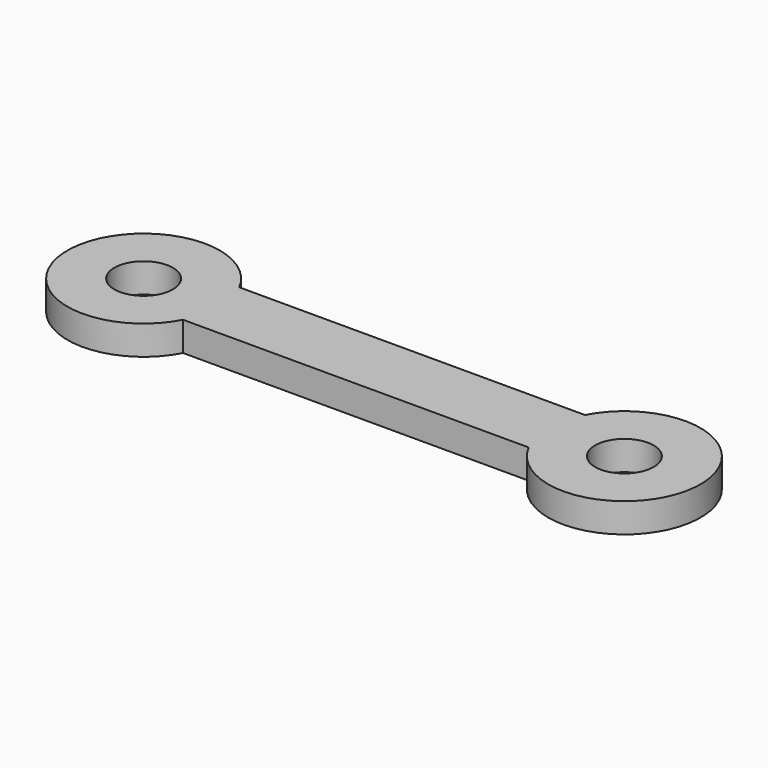
from build123d import *

# Parameters (mm, degrees)
SKETCH_R  = 2.5
PAD_DEPTH = 2.5


with BuildPart() as part:
    # Sketch → Pad (new body)
    with BuildSketch(Plane.XY):
        with BuildLine():
            Line((-14.75, 3), (14.75, 3))
            ThreePointArc((14.75, -3), (27.016281, 0), (14.75, 3))
            Line((14.75, -3), (-14.75, -3))
            ThreePointArc((-14.75, 3), (-27.016281, 0), (-14.75, -3))
        make_face()
        with Locations((-20.516281, 0)):
            Circle(SKETCH_R, mode=Mode.SUBTRACT)
        with Locations((20.516281, 0)):
            Circle(SKETCH_R, mode=Mode.SUBTRACT)
    extrude(amount=PAD_DEPTH)


solid = part.part
